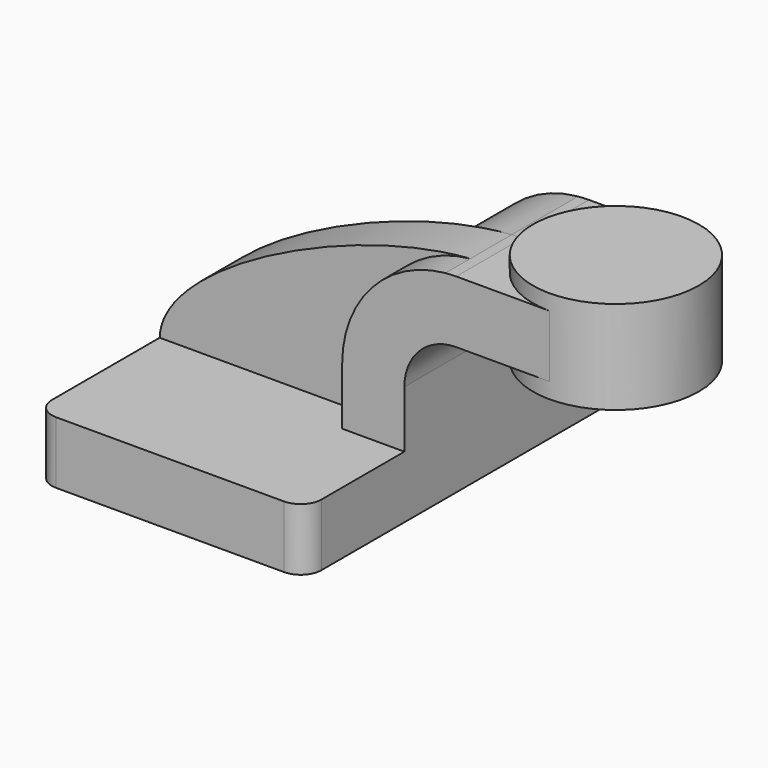
from build123d import *

# Parameters (mm, degrees)
F1_DEPTH = 63.5
F0_W     = 25.3211855178
F0_H     = 19.05
F2_DEPTH = 25.4
F3_DEPTH = 15.875
F5_R     = 6.35


with BuildPart() as f1:
    # F0 (on Front) → F1 (new body, symmetric)
    with BuildSketch(Plane.XZ):
        Polygon((41.275, -9.525), (41.275, 9.525), (22.225, 9.525), (-41.275, 9.525), (-41.275, -9.525), align=None)
    extrude(amount=F1_DEPTH, both=True)

    # F0 (on Front) → F2 (join, symmetric)
    with BuildSketch(Plane.XZ):
        with Locations((72.9855927589, 52.4002)):
            Rectangle(F0_W, F0_H)
        with BuildLine():
            Line((22.225, 9.525), (41.275, 9.525))
            Line((41.275, 9.525), (41.275, 27.0002))
            ThreePointArc((41.275, 27.0002), (45.9246798487, 38.2255201513), (57.15, 42.8752))
            Line((57.15, 42.8752), (60.325, 42.8752))
            Line((60.325, 42.8752), (60.325, 61.9252))
            Line((60.325, 61.9252), (57.15, 61.9252))
            add(Edge.make_bspline(
                [(53.8199176635, 61.7660766125), (54.9516006508, 61.8440010886), (56.0624181193, 61.8973585375), (57.15, 61.9252)],
                knots=[108.144944826, 108.144944826, 108.144944826, 108.144944826, 111.5045361635, 111.5045361635, 111.5045361635, 111.5045361635], degree=3))
            ThreePointArc((53.8199176635, 61.7660766125), (31.3037357574, 50.4890537332), (22.225, 27.0002))
            Line((22.225, 27.0002), (22.225, 9.525))
        make_face()
    extrude(amount=F2_DEPTH, both=True)

    # F0 (on Front) → F3 (join)
    with BuildSketch(Plane.XZ):
        with BuildLine():
            Line((-41.275, 9.525), (22.225, 9.525))
            Line((22.225, 9.525), (22.225, 27.0002))
            ThreePointArc((22.225, 27.0002), (31.3037357574, 50.4890537332), (53.8199176635, 61.7660766125))
            add(Edge.make_bspline(
                [(-41.275, 9.525), (-40.6582798871, 31.2931964034), (17.3911434687, 59.2576946918), (53.8199176635, 61.7660766125)],
                knots=[0, 0, 0, 0, 108.144944826, 108.144944826, 108.144944826, 108.144944826], degree=3))
        make_face()
    extrude(amount=F3_DEPTH)

    # F0 (on Front) → F4 (revolve)
    with BuildSketch(Plane.XZ):
        Polygon((85.725, 52.3875), (85.725, 38.1), (111.125, 38.1), (111.125, 66.675), (85.725, 66.675), align=None)
    revolve(axis=Axis((85.725, 0, 52.3875), (0, 0, -1)))

    # F5
    f5_edges = [f1.edges().sort_by_distance(p)[0] for p in [
        (41.275, 63.5, 0),
        (-41.275, 63.5, 0),
        (41.275, -63.5, 0),
        (-41.275, -63.5, 0),
    ]]
    fillet(f5_edges, radius=F5_R)


solid = f1.part
